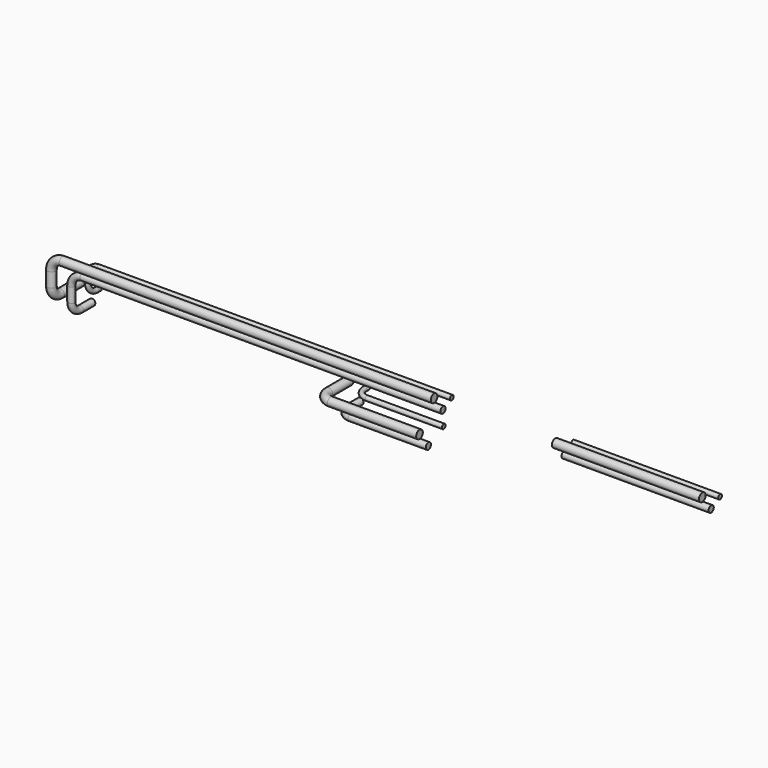
from build123d import *

# Parameters (mm, degrees)
F0_R      = 11.1125
F0_R_2    = 14.2875
F0_R_3    = 7.9375
F21_W     = 415.925
F21_H     = 254
F22_DEPTH = 141.2885001


with BuildPart() as f8:
    # F8: sweep along a path in F5, F7
    with BuildLine(Plane.YZ) as f8_path:
        Line((0, 0), (-50.8, 0))
        ThreePointArc((-50.8, 0), (-77.7407683632, 11.1592316368), (-88.9, 38.1))
        Line((-88.9, 38.1), (-88.9, 87.3125))
    with BuildLine(Plane.XZ.offset(88.9)) as f8_path_2:
        ThreePointArc((0, 87.3125), (11.1592316368, 114.2532683632), (38.1, 125.4125))
        Line((38.1, 125.4125), (1275.55625, 125.4125))
        Line((1275.55625, 125.4125), (2196.30625, 125.4125))
    # F0 (on Front) → F8 (sweep)
    with BuildSketch(Plane.XZ):
        Circle(F0_R)
    sweep(path=f8_path.line + f8_path_2.line)


with BuildPart() as f12:
    # F12: sweep along a path in F9, F11
    with BuildLine(Plane.YZ.offset(-38.1)) as f12_path:
        Line((0, 50.8), (-88.9, 50.8))
        ThreePointArc((-88.9, 50.8), (-115.8407683632, 61.9592316368), (-127, 88.9))
        Line((-127, 88.9), (-127, 138.1125))
    with BuildLine(Plane.XZ.offset(127)) as f12_path_2:
        ThreePointArc((-38.1, 138.1125), (-26.9407683632, 165.0532683632), (0, 176.2125))
        Line((0, 176.2125), (1275.55625, 176.2125))
        Line((1275.55625, 176.2125), (2196.30625, 176.2125))
    # F0 (on Front) → F12 (sweep)
    with BuildSketch(Plane.XZ):
        with Locations((-38.1, 50.8)):
            Circle(F0_R_2)
    sweep(path=f12_path.line + f12_path_2.line)


with BuildPart() as f16:
    # F16: sweep along a path in F13, F15
    with BuildLine(Plane.YZ.offset(25.4)) as f16_path:
        Line((0, 50.8), (-12.7, 50.8))
        ThreePointArc((-12.7, 50.8), (-39.6407683632, 61.9592316368), (-50.8, 88.9))
        Line((-50.8, 88.9), (-50.8, 108.74375))
    with BuildLine(Plane.XZ.offset(50.8)) as f16_path_2:
        ThreePointArc((25.4, 108.74375), (36.5592316368, 135.6845183632), (63.5, 146.84375))
        Line((63.5, 146.84375), (1275.55625, 146.84375))
        Line((1275.55625, 146.84375), (2196.30625, 146.84375))
    # F0 (on Front) → F16 (sweep)
    with BuildSketch(Plane.XZ):
        with Locations((25.4, 50.8)):
            Circle(F0_R_3)
    sweep(path=f16_path.line + f16_path_2.line)


with BuildPart() as f18:
    # F18: sweep along a path in F17
    with BuildLine(Plane.XY.offset(50.8)) as f18_path:
        Line((946.15, 0), (946.15, -12.7))
        ThreePointArc((946.15, -12.7), (957.3092316368, -39.6407683632), (984.25, -50.8))
        Line((984.25, -50.8), (1247.775, -50.8))
    # F0 (on Front) → F18 (sweep)
    with BuildSketch(Plane.XZ):
        with Locations((946.15, 50.8)):
            Circle(F0_R_3)
    sweep(path=f18_path.line)


with BuildPart() as f19:
    # F19: sweep along a path in F17
    with BuildLine(Plane.XY.offset(50.8)) as f19_path:
        Line((920.75, 0), (920.75, -50.8))
        ThreePointArc((920.75, -50.8), (931.9092316368, -77.7407683632), (958.85, -88.9))
        Line((958.85, -88.9), (1225.55, -88.9))
    # F0 (on Front) → F19 (sweep)
    with BuildSketch(Plane.XZ):
        with Locations((920.75, 0)):
            Circle(F0_R)
    sweep(path=f19_path.line)


with BuildPart() as f20:
    # F20: sweep along a path in F17
    with BuildLine(Plane.XY.offset(50.8)) as f20_path:
        Line((882.65, 0), (882.65, -88.9))
        ThreePointArc((882.65, -88.9), (893.8092316368, -115.8407683632), (920.75, -127))
        Line((920.75, -127), (1225.55, -127))
    # F0 (on Front) → F20 (sweep)
    with BuildSketch(Plane.XZ):
        with Locations((882.65, 50.8)):
            Circle(F0_R_2)
    sweep(path=f20_path.line)


with BuildPart() as f22_tool:
    # F21 (on Front) → F22 (new body, through all)
    with BuildSketch(Plane.XZ):
        with Locations((1483.51875, 146.84375)):
            Rectangle(F21_W, F21_H)
    extrude(amount=F22_DEPTH)


with BuildPart() as f8_1:
    add(f8.part)

    # F22: cut by f22_tool
    add(f22_tool.part, mode=Mode.SUBTRACT)


with BuildPart() as f12_1:
    add(f12.part)

    # F22: cut by f22_tool
    add(f22_tool.part, mode=Mode.SUBTRACT)


with BuildPart() as f16_1:
    add(f16.part)

    # F22: cut by f22_tool
    add(f22_tool.part, mode=Mode.SUBTRACT)


solid = Compound([f18.part, f19.part, f20.part, f8_1.part, f12_1.part, f16_1.part])
